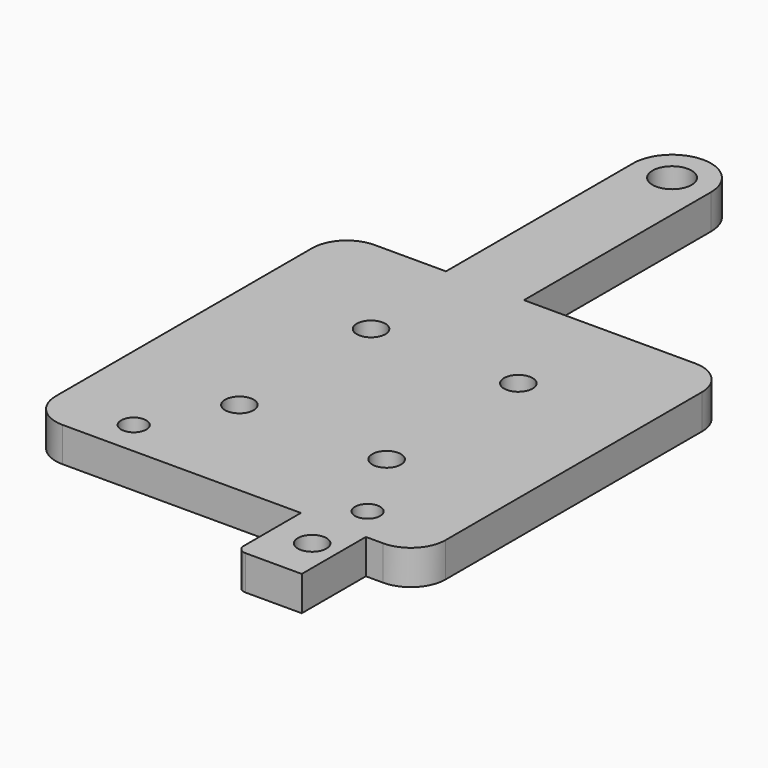
from build123d import *

# Parameters (mm, degrees)
F0_R     = 1.45
F0_R_2   = 1.65
F0_R_3   = 2.25
F1_DEPTH = 4


with BuildPart() as f1:
    # F0 (on Top) → F1 (new body)
    with BuildSketch(Plane.XY):
        with BuildLine():
            Line((-1.25, 22.5), (-1.25, 49.5))
            ThreePointArc((-1.25, 49.5), (-5.75, 54), (-10.25, 49.5))
            Line((-10.25, 49.5), (-10.25, 22.5))
            Line((-10.25, 22.5), (-18.5, 22.5))
            ThreePointArc((-18.5, 22.5), (-21.328427, 21.328427), (-22.5, 18.5))
            Line((-22.5, 18.5), (-22.5, -18.5))
            ThreePointArc((-22.5, -18.5), (-21.328427, -21.328427), (-18.5, -22.5))
            Line((-18.5, -22.5), (9, -22.5))
            Line((9, -22.5), (9, -30.75))
            ThreePointArc((9, -30.75), (9.292893, -31.457107), (10, -31.75))
            Line((10, -31.75), (16.5, -31.75))
            Line((16.5, -31.75), (16.5, -22.5))
            Line((16.5, -22.5), (18.5, -22.5))
            ThreePointArc((18.5, -22.5), (21.328427, -21.328427), (22.5, -18.5))
            Line((22.5, -18.5), (22.5, 18.5))
            ThreePointArc((22.5, 18.5), (21.328427, 21.328427), (18.5, 22.5))
            Line((18.5, 22.5), (-1.25, 22.5))
        make_face()
        with Locations((-13.5, -18.5)):
            Circle(F0_R, mode=Mode.SUBTRACT)
        with Locations((-8.5, -9.5)):
            Circle(F0_R_2, mode=Mode.SUBTRACT)
        with Locations((-8.5, 9.5)):
            Circle(F0_R_2, mode=Mode.SUBTRACT)
        with Locations((13.5, -26.5)):
            Circle(F0_R_2, mode=Mode.SUBTRACT)
        with Locations((13.5, -18.5)):
            Circle(F0_R, mode=Mode.SUBTRACT)
        with Locations((8.5, -9.5)):
            Circle(F0_R_2, mode=Mode.SUBTRACT)
        with Locations((8.5, 9.5)):
            Circle(F0_R_2, mode=Mode.SUBTRACT)
        with Locations((-5.75, 49.5)):
            Circle(F0_R_3, mode=Mode.SUBTRACT)
    extrude(amount=-F1_DEPTH)


solid = f1.part
